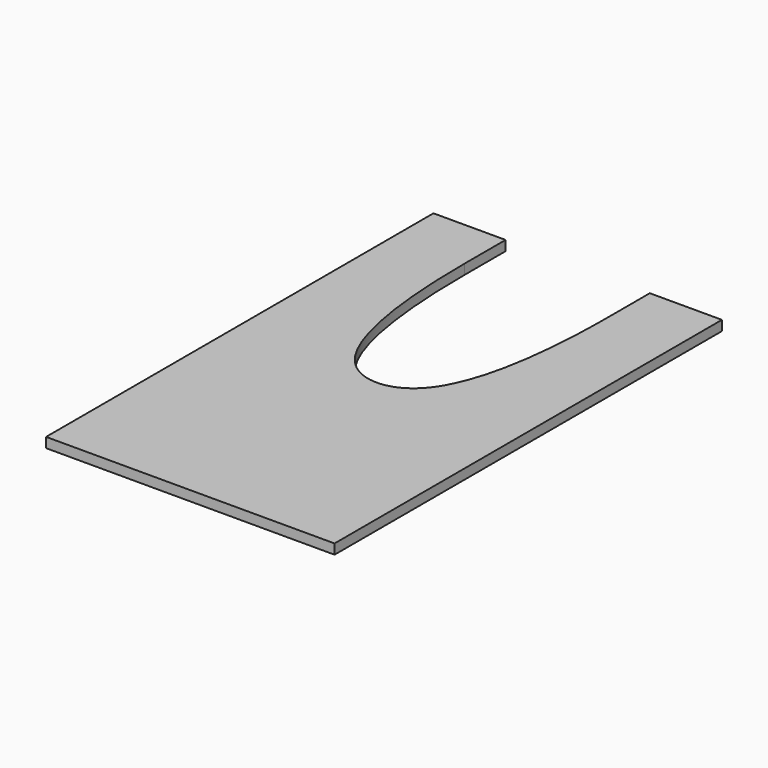
from build123d import *

# Parameters (mm, degrees)
F0_W      = 140
F0_H      = 110
F0_W_2    = 35
F0_H_2    = 25
F1_DEPTH  = 4.826
F2_W      = 31.75
F2_H      = 31.75
F2_W_2    = 25.4
F2_H_2    = 25.4
F3_DEPTH  = 120
F4_W      = 6
F4_H      = 31.75
F4_W_2    = 2.825
F4_H_2    = 25.4
F5_DEPTH  = 110
F6_R      = 3
F7_DEPTH  = 10
F8_W      = 25.4
F8_H      = 25.4
F8_W_2    = 15.874
F8_H_2    = 15.874
F9_DEPTH  = 20
F11_DEPTH = 152
F12_W     = 120
F12_H     = 31.75
F13_DEPTH = 140.0010001


with BuildPart() as f1:
    # F0 (on Top) → F1 (new body)
    with BuildSketch(Plane.XY):
        with Locations((3.5, 55)):
            Rectangle(F0_W, F0_H)
        with BuildLine():
            Line((-66.5, 210), (-66.5, 110))
            Line((-66.5, 110), (73.5, 110))
            Line((73.5, 110), (73.5, 210))
            Line((73.5, 210), (38.5, 210))
            add(Edge.make_bspline(
                [(-31.5, 210), (-31.5, 178), (-26.1927577262, 110.7427430843), (33.1927577262, 110.7427430843), (38.5, 178), (38.5, 210)],
                knots=[0, 0, 0, 0, 0.3861272069, 0.6138727931, 1, 1, 1, 1], degree=3))
            Line((-31.5, 210), (-66.5, 210))
        make_face()
        with Locations((-49, 222.5)):
            Rectangle(F0_W_2, F0_H_2)
        with Locations((56, 222.5)):
            Rectangle(F0_W_2, F0_H_2)
    extrude(amount=F1_DEPTH)

    # F2 (on face) → F3 (join)
    with BuildSketch(Plane.XZ):
        with Locations((-50.625, -15.875)):
            Rectangle(F2_W, F2_H)
        with Locations((-50.625, -15.875)):
            Rectangle(F2_W_2, F2_H_2, mode=Mode.SUBTRACT)
        with Locations((57.625, -15.875)):
            Rectangle(F2_W, F2_H)
        with Locations((57.625, -15.875)):
            Rectangle(F2_W_2, F2_H_2, mode=Mode.SUBTRACT)
    extrude(amount=-F3_DEPTH)

    # F4 (on face) → F5 (join)
    with BuildSketch(Plane(origin=(0, 120, 0), x_dir=(-1, 0, 0), z_dir=(0, 1, 0))):
        with Locations((63.5, -15.875)):
            Rectangle(F4_W, F4_H)
        with Locations((-68.9125, -15.875)):
            Rectangle(F4_W_2, F4_H_2)
        Polygon((-67.5, 0), (-73.5, 0), (-73.5, -31.75), (-70.325, -31.75), (-67.5, -31.75), (-67.5, -28.575), (-70.325, -28.575), (-70.325, -3.175), (-67.5, -3.175), align=None)
    extrude(amount=F5_DEPTH)

    # F6 (on face) → F7 (cut)
    with BuildSketch(Plane.YZ.offset(-34.75)):
        with Locations((60, -10)):
            Circle(F6_R)
    extrude(amount=-F7_DEPTH, mode=Mode.SUBTRACT)

    # F8 (on face) → F9 (join, symmetric)
    with BuildSketch(Plane.XZ):
        with Locations((-50.625, -15.875)):
            Rectangle(F8_W, F8_H)
        with Locations((-50.625, -15.875)):
            Rectangle(F8_W_2, F8_H_2, mode=Mode.SUBTRACT)
        with Locations((57.625, -15.875)):
            Rectangle(F8_W, F8_H)
        with Locations((57.625, -15.875)):
            Rectangle(F8_W_2, F8_H_2, mode=Mode.SUBTRACT)
    extrude(amount=F9_DEPTH, both=True)

    # F10 (on face) → F11 (cut)
    with BuildSketch(Plane(origin=(-66.5, 0, 0), x_dir=(0, -1, 0), z_dir=(-1, 0, 0))):
        with BuildLine():
            ThreePointArc((-180, -20), (-177.1715728753, -18.8284271247), (-176, -16))
            ThreePointArc((-176, -16), (-177.1715728753, -13.1715728753), (-180, -12))
            Line((-180, -12), (-180, -16))
            Line((-180, -16), (-180, -20))
        make_face()
        with BuildLine():
            Line((-180, -16), (-180, -12))
            ThreePointArc((-180, -12), (-184, -16), (-180, -20))
            Line((-180, -20), (-180, -16))
        make_face()
        with BuildLine():
            ThreePointArc((-180, -20), (-184, -16), (-180, -12))
            Line((-180, -12), (-230, -12))
            Line((-230, -12), (-230, -20))
            Line((-230, -20), (-180, -20))
        make_face()
    extrude(amount=-F11_DEPTH, mode=Mode.SUBTRACT)

    # F12 (on face) → F13 (cut, through all)
    with BuildSketch(Plane(origin=(-66.5, 0, 0), x_dir=(0, -1, 0), z_dir=(-1, 0, 0))):
        Polygon((-236.2957447767, 41.7925678194), (-236.2957447767, 0), (-235, 0), (-235, 4.826), (-120, 4.826), (-120, 41.7925678194), align=None)
        Polygon((-120, 64.1580745578), (-120, 41.7925678194), (11.4044835791, 41.7925678194), (11.4044835791, 0), (0, 0), (0, -31.75), (-120, -31.75), (-120, -61.878118664), (43.3997410536, -61.878118664), (43.3997410536, 64.1580745578), align=None)
        with Locations((-60, -15.875)):
            Rectangle(F12_W, F12_H)
        Polygon((11.4044835791, 41.7925678194), (-120, 41.7925678194), (-120, 4.826), (0, 4.826), (0, 0), (11.4044835791, 0), align=None)
        with BuildLine():
            Line((-120, 0), (-230, 0))
            Line((-230, 0), (-230, -12))
            Line((-230, -12), (-180, -12))
            ThreePointArc((-180, -12), (-176, -16), (-180, -20))
            Line((-180, -20), (-230, -20))
            Line((-230, -20), (-230, -31.75))
            Line((-230, -31.75), (-120, -31.75))
            Line((-120, -31.75), (-120, 0))
        make_face()
    extrude(amount=-F13_DEPTH, mode=Mode.SUBTRACT)


solid = f1.part
